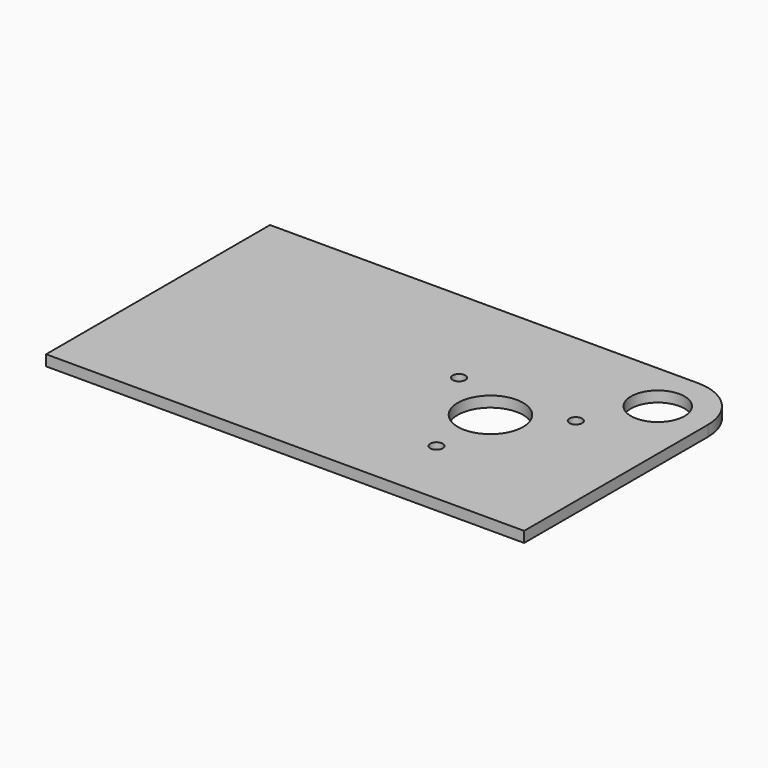
from build123d import *

# Parameters (mm, degrees)
F0_W     = 226.934584
F0_H     = 132.857451
F0_R     = 3
F0_R_2   = 15.497899
F0_R_3   = 12.7
F1_DEPTH = 5.08
F2_R     = 23.8125


with BuildPart() as f1:
    # F0 (on Top) → F1 (new body)
    with BuildSketch(Plane.XY):
        with Locations((-45.531327, 1.507239)):
            Rectangle(F0_W, F0_H)
        with Locations((0, -32.000012)):
            Circle(F0_R, mode=Mode.SUBTRACT)
        Circle(F0_R_2, mode=Mode.SUBTRACT)
        with Locations((-27.712823, 16.000006)):
            Circle(F0_R, mode=Mode.SUBTRACT)
        with Locations((27.712823, 16.000006)):
            Circle(F0_R, mode=Mode.SUBTRACT)
        with Locations((44.123465, 44.123465)):
            Circle(F0_R_3, mode=Mode.SUBTRACT)
    extrude(amount=F1_DEPTH)

    # F2
    f2_edges = [f1.edges().sort_by_distance(p)[0] for p in [
        (67.935965, 67.935965, 2.54),
    ]]
    fillet(f2_edges, radius=F2_R)


solid = f1.part
